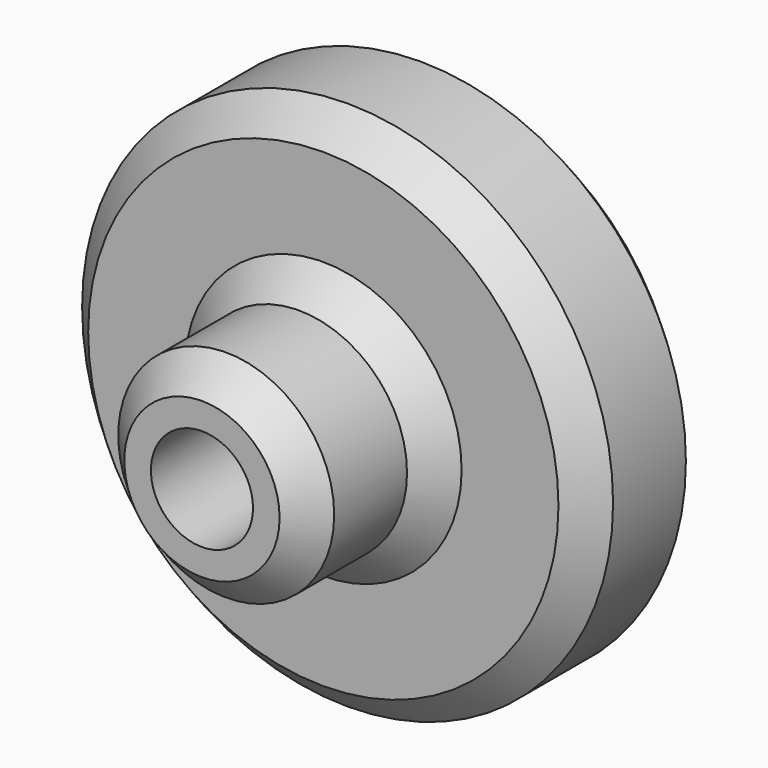
from build123d import *

# Parameters (mm, degrees)
F0_R     = 44.45
F1_DEPTH = 25.4
F2_R     = 18.07801
F3_DEPTH = 50.8
F4_R     = 8.546468
F5_DEPTH = 127
F6_SIZE  = 5.08
F7_SIZE  = 5.08


with BuildPart() as f1:
    # F0 (on Front) → F1 (new body)
    with BuildSketch(Plane.XZ):
        Circle(F0_R)
    extrude(amount=F1_DEPTH)

    # F2 (on Front) → F3 (join)
    with BuildSketch(Plane.XZ):
        Circle(F2_R)
    extrude(amount=F3_DEPTH)

    # F4 (on face) → F5 (cut)
    with BuildSketch(Plane.XZ.offset(50.8)):
        Circle(F4_R)
    extrude(amount=-F5_DEPTH, mode=Mode.SUBTRACT)

    # F6
    f6_edges = [f1.edges().sort_by_distance(p)[0] for p in [
        (-18.07801, -25.4, 0),
        (18.07801, -38.1, 0),
        (-18.07801, -50.8, 0),
    ]]
    chamfer(f6_edges, length=F6_SIZE)

    # F7
    f7_edges = [f1.edges().sort_by_distance(p)[0] for p in [
        (44.45, -12.7, 0),
        (-44.45, 0, 0),
        (-44.45, -25.4, 0),
    ]]
    chamfer(f7_edges, length=F7_SIZE)


solid = f1.part
